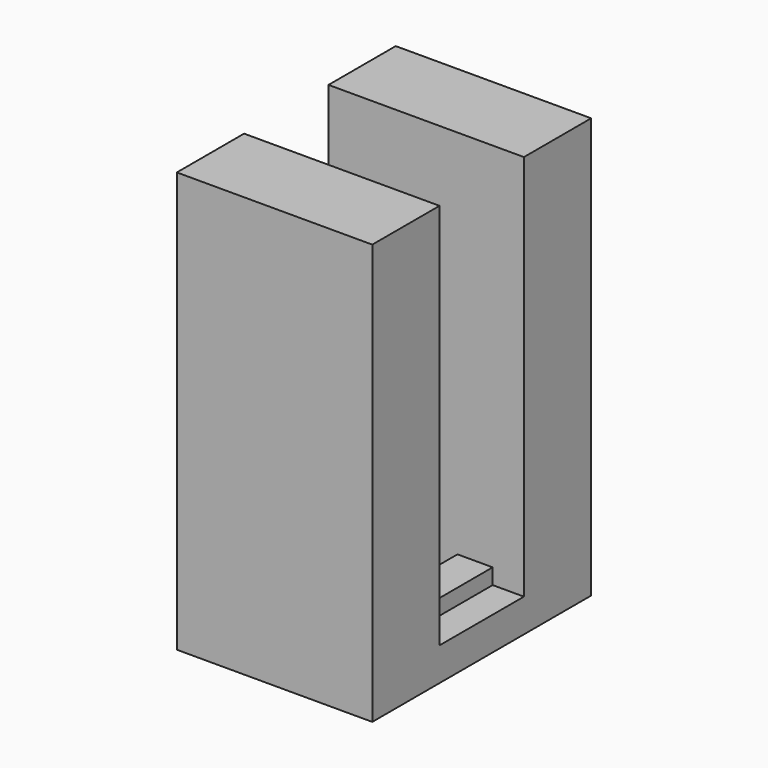
from build123d import *

# Parameters (mm, degrees)
EXTRUDE032_DEPTH = 5
SKETCH036_W      = 0.9
SKETCH036_H      = 1.25
EXTRUDE033_DEPTH = 7


with BuildPart() as extrude032:
    # Sketch035 → Extrude032 (new body)
    with BuildSketch(Plane.YZ.offset(67)):
        Polygon((60, 12.75), (62.15, 12.75), (62.15, 2.85), (64.85, 2.85), (64.85, 12.75), (67, 12.75), (67, 2), (60, 2), align=None)
    extrude(amount=EXTRUDE032_DEPTH)


with BuildPart() as obj1:
    # Sketch036 → Extrude033 (new body)
    with BuildSketch(Plane.XZ):
        with Locations((70.75, 2.625)):
            Rectangle(SKETCH036_W, SKETCH036_H)
    extrude(amount=EXTRUDE033_DEPTH)


with BuildPart() as obj1_1:
    # Extrude033 placement: moved
    add(obj1.part.moved(Location((0, 67, 0))))

    # Fusion: union Extrude032
    add(extrude032.part)


solid = obj1_1.part
